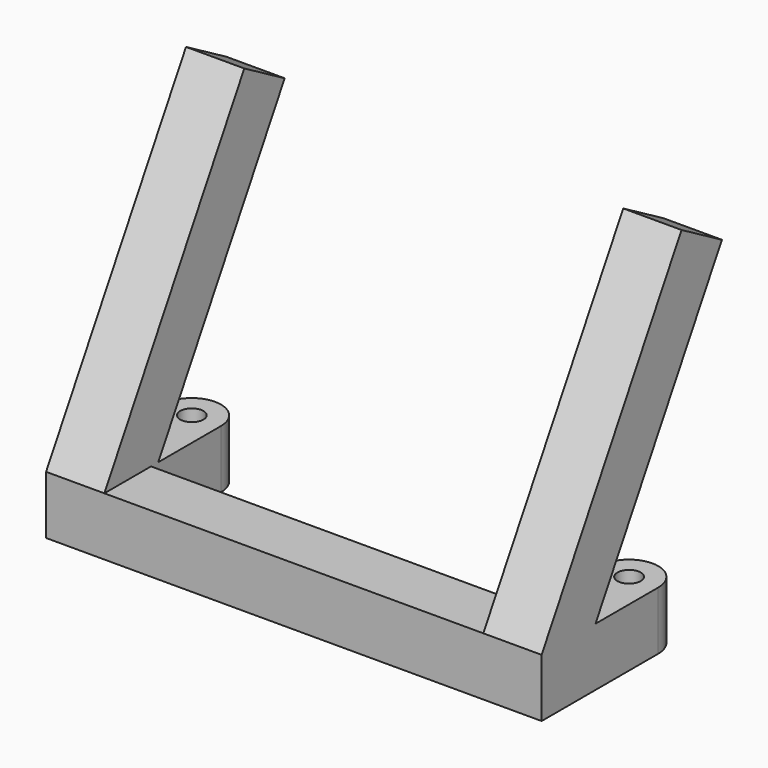
from build123d import *

# Parameters (mm, degrees)
SKETCH_R     = 2
PAD_DEPTH    = 10
PAD001_DEPTH = 10
PAD002_DEPTH = 10


with BuildPart() as part:
    # Sketch → Pad (new body)
    with BuildSketch(Plane.XY):
        with BuildLine():
            Line((-5, -25), (-5, 0))
            ThreePointArc((5, 0), (0, 5), (-5, 0))
            Line((5, 0), (5, -15))
            Line((5, -15), (70, -15))
            Line((70, -15), (70, 0))
            ThreePointArc((80, 0), (75, 5), (70, 0))
            Line((80, 0), (80, -25))
            Line((-5, -25), (80, -25))
        make_face()
        Circle(SKETCH_R, mode=Mode.SUBTRACT)
        with Locations((75, 0)):
            Circle(SKETCH_R, mode=Mode.SUBTRACT)
    extrude(amount=PAD_DEPTH)

    # Sketch001 (on Face1 of Pad) → Pad001 (join)
    with BuildSketch(Plane(origin=(-5, 0, 0), x_dir=(0, -1, 0), z_dir=(-1, 0, 0))):
        Polygon((25, 10), (-5, 61.961524), (-13.660254, 56.961524), (13.452995, 10), align=None)
    extrude(amount=-PAD001_DEPTH)

    # Sketch002 (on Face7 of Pad) → Pad002 (join)
    with BuildSketch(Plane.YZ.offset(80)):
        Polygon((-25, 10), (5, 61.961524), (13.660254, 56.961524), (-13.452995, 10), align=None)
    extrude(amount=-PAD002_DEPTH)


solid = part.part
